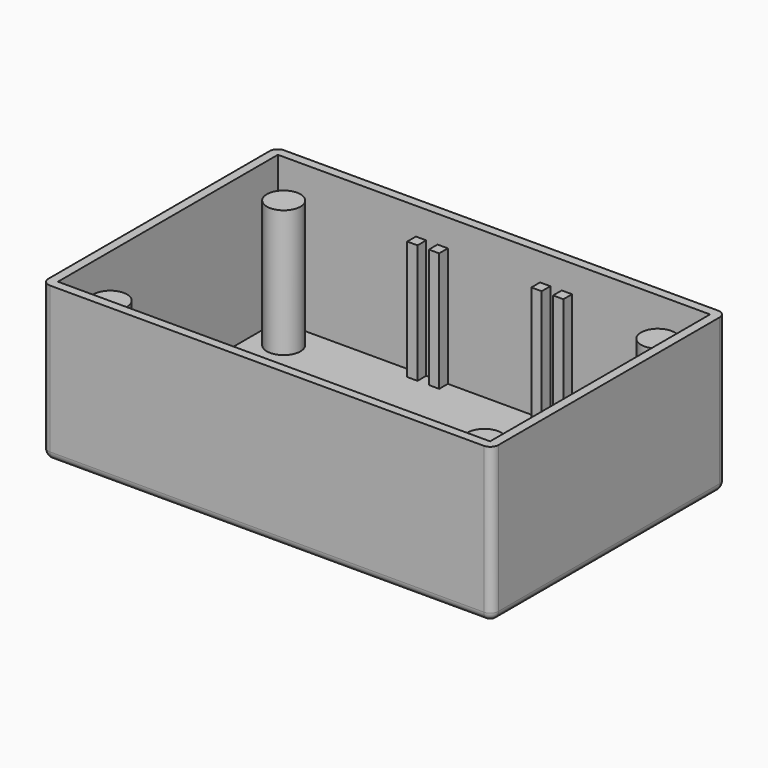
from build123d import *

# Parameters (mm, degrees)
CYLINDER040_R     = 2
CYLINDER040_DEPTH = 10
CYLINDER038_R     = 3.1
CYLINDER038_DEPTH = 23.5
BOX010_W          = 1.9
BOX010_H          = 2
BOX010_DEPTH      = 22
BOX009_W          = 79.7
BOX009_H          = 50.7
BOX009_DEPTH      = 27
BOX008_W          = 83
BOX008_H          = 54
BOX008_DEPTH      = 28.5
FILLET_R          = 1.5


with BuildPart() as led_hole:
    # Cylinder040 → Cylinder040 (new body)
    with BuildSketch(Plane(origin=(52, 18.01, -10), x_dir=(1, 0, 0), z_dir=(0, 0, 1))):
        Circle(CYLINDER040_R)
    extrude(amount=CYLINDER040_DEPTH)


with BuildPart() as lid_col:
    # Cylinder038 → Cylinder038 (new body)
    with BuildSketch(Plane(origin=(7, 7, 1.5), x_dir=(1, 0, 0), z_dir=(0, 0, 1))):
        Circle(CYLINDER038_R)
    extrude(amount=CYLINDER038_DEPTH)


with BuildPart() as lid_col001:
    # Clone010 base: copy of lid-col
    add(lid_col.part)


with BuildPart() as lid_col001_1:
    # Clone010 placement: moved
    add(lid_col001.part.moved(Location((0, 40, 0))))


with BuildPart() as lid_col002:
    # Clone011 base: copy of lid-col
    add(lid_col.part)


with BuildPart() as lid_col002_1:
    # Clone011 placement: moved
    add(lid_col002.part.moved(Location((69, 0, 0))))


with BuildPart() as lid_col003:
    # Clone012 base: copy of lid-col
    add(lid_col.part)


with BuildPart() as lid_col003_1:
    # Clone012 placement: moved
    add(lid_col003.part.moved(Location((69, 40, 0))))


with BuildPart() as lid_pin:
    # Box010 → Box010 (new body)
    with BuildSketch(Plane(origin=(50, 50.35, 1.5), x_dir=(1, 0, 0), z_dir=(0, 0, 1))):
        with Locations((0.95, 1)):
            Rectangle(BOX010_W, BOX010_H)
    extrude(amount=BOX010_DEPTH)


with BuildPart() as lid_pin001:
    # Clone003 base: copy of lid-pin
    add(lid_pin.part)


with BuildPart() as lid_pin001_1:
    # Clone003 placement: moved
    add(lid_pin001.part.moved(Location((4, 0, 0))))


with BuildPart() as lid_pin002:
    # Clone004 base: copy of lid-pin
    add(lid_pin.part)


with BuildPart() as lid_pin002_1:
    # Clone004 placement: moved
    add(lid_pin002.part.moved(Location((-18.9, 0, 0))))


with BuildPart() as lid_pin003:
    # Clone005 base: copy of lid-pin
    add(lid_pin.part)


with BuildPart() as lid_pin003_1:
    # Clone005 placement: moved
    add(lid_pin003.part.moved(Location((-22.9, 0, 0))))


with BuildPart() as lid_pin004:
    # Clone006 base: copy of lid-pin
    add(lid_pin.part)


with BuildPart() as lid_pin004_1:
    # Clone006 placement: moved
    add(lid_pin004.part.moved(Location((0, -48.7, 0))))


with BuildPart() as lid_pin005:
    # Clone007 base: copy of lid-pin
    add(lid_pin.part)


with BuildPart() as lid_pin005_1:
    # Clone007 placement: moved
    add(lid_pin005.part.moved(Location((4, -48.7, 0))))


with BuildPart() as lid_pin006:
    # Clone008 base: copy of lid-pin
    add(lid_pin.part)


with BuildPart() as lid_pin006_1:
    # Clone008 placement: moved
    add(lid_pin006.part.moved(Location((-18.9, -48.7, 0))))


with BuildPart() as lid_pin007:
    # Clone009 base: copy of lid-pin
    add(lid_pin.part)


with BuildPart() as lid_pin007_1:
    # Clone009 placement: moved
    add(lid_pin007.part.moved(Location((-22.9, -48.7, 0))))


with BuildPart() as cube009:
    # Box009 → Box009 (new body)
    with BuildSketch(Plane(origin=(1.65, 1.65, 1.5), x_dir=(1, 0, 0), z_dir=(0, 0, 1))):
        with Locations((39.85, 25.35)):
            Rectangle(BOX009_W, BOX009_H)
    extrude(amount=BOX009_DEPTH)


with BuildPart() as obj1:
    # Box008 → Box008 (new body)
    with BuildSketch(Plane.XY):
        with Locations((41.5, 27)):
            Rectangle(BOX008_W, BOX008_H)
    extrude(amount=BOX008_DEPTH)

    # Fillet
    fillet_edges = [obj1.edges().sort_by_distance(p)[0] for p in [
        (0, 0, 14.25),
        (0, 54, 14.25),
        (0, 27, 0),
        (83, 0, 14.25),
        (83, 54, 14.25),
        (83, 27, 0),
        (41.5, 0, 0),
        (41.5, 54, 0),
    ]]
    fillet(fillet_edges, radius=FILLET_R)

    # Cut005: cut Cube009
    add(cube009.part, mode=Mode.SUBTRACT)

    # Fusion002: union lid-pin
    add(lid_pin.part)

    # Fusion003: union lid-pin007
    add(lid_pin007_1.part)

    # Fusion004: union lid-pin006
    add(lid_pin006_1.part)

    # Fusion005: union lid-pin005
    add(lid_pin005_1.part)

    # Fusion006: union lid-pin004
    add(lid_pin004_1.part)

    # Fusion007: union lid-pin003
    add(lid_pin003_1.part)

    # Fusion008: union lid-pin002
    add(lid_pin002_1.part)

    # Fusion009: union lid-pin001
    add(lid_pin001_1.part)

    # Fusion010: union lid-col
    add(lid_col.part)

    # Fusion011: union lid-col003
    add(lid_col003_1.part)

    # Fusion012: union lid-col002
    add(lid_col002_1.part)

    # Fusion013: union lid-col001
    add(lid_col001_1.part)


with BuildPart() as obj1_1:
    # Fusion013 placement: moved
    add(obj1.part.moved(Location((-23.8, -13.7, -8.5))))

    # Cut007: cut led-hole
    add(led_hole.part, mode=Mode.SUBTRACT)


solid = obj1_1.part
